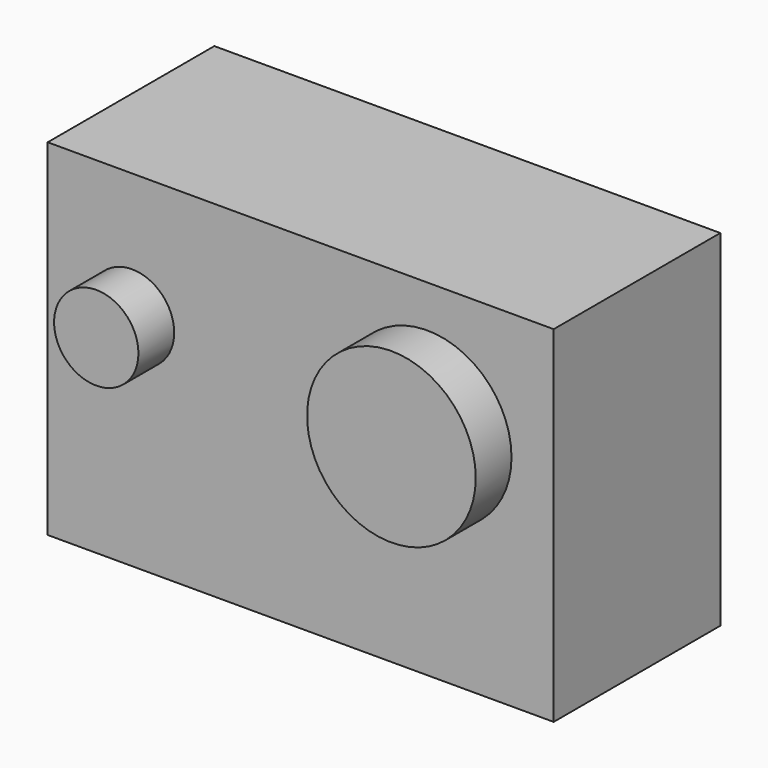
from build123d import *

# Parameters (mm, degrees)
F0_W     = 60
F0_H     = 41
F1_DEPTH = 12.35
F2_R     = 10
F2_R_2   = 5
F3_DEPTH = 5.3


with BuildPart() as f1:
    # F0 (on Front) → F1 (new body, symmetric)
    with BuildSketch(Plane.XZ):
        Rectangle(F0_W, F0_H)
    extrude(amount=F1_DEPTH, both=True)

    # F2 (on face) → F3 (join)
    with BuildSketch(Plane.XZ.offset(12.35)):
        with Locations((15, 5.5)):
            Circle(F2_R)
        with Locations((-20, 5.5)):
            Circle(F2_R_2)
    extrude(amount=F3_DEPTH)


solid = f1.part
